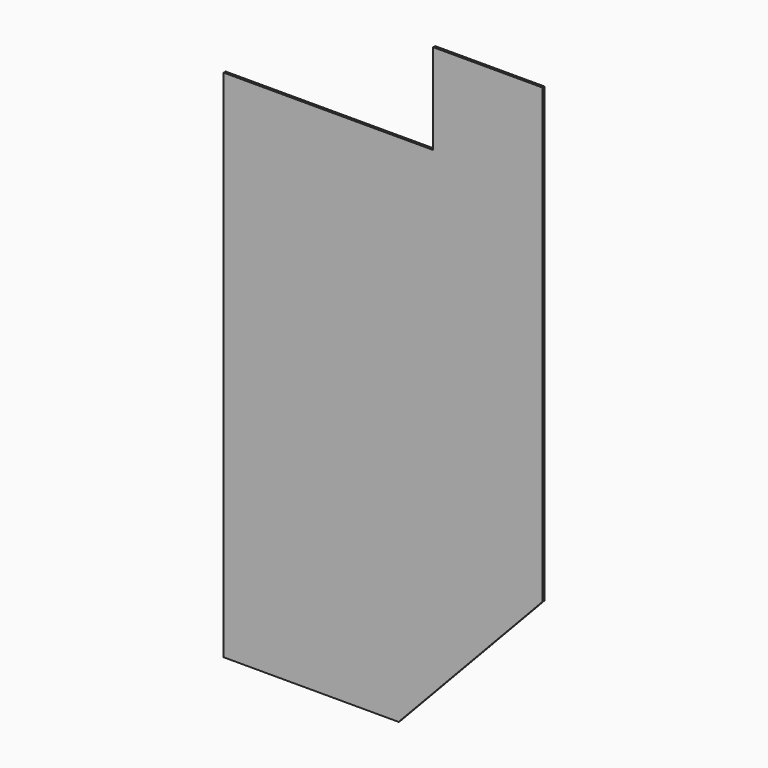
from build123d import *

# Parameters (mm, degrees)
F0_W     = 381
F0_H     = 780.4117928475
F0_W_2   = 44.45
F0_W_3   = 381.6382071525
F1_DEPTH = 12.7
F0_W_4   = 492.125
F0_H_2   = 867.0322071525
F0_H_3   = 44.45
F0_H_4   = 854.456
F2_DEPTH = 12.7
F0_W_5   = 514.35
F0_H_5   = 641.6072071525
F0_H_6   = 629.031
F0_H_7   = 406.4
F0_H_8   = 419.1
F3_DEPTH = 12.7


with BuildPart() as f1:
    # F0 (on Front) → F1 (new body)
    with BuildSketch(Plane.XZ):
        Polygon((-1159.5071711258, -308.3058698438), (-1159.5071711258, -1110.9458698438), (-1115.0571711258, -1110.9458698438), (-1115.0571711258, -330.5340769963), (-1115.0571711258, -308.3058698438), align=None)
        with Locations((-924.5571711258, -720.73997342)):
            Rectangle(F0_W, F0_H)
        Polygon((-64.1321711258, -308.3058698438), (-1115.0571711258, -308.3058698438), (-1115.0571711258, -330.5340769963), (-734.0571711258, -330.5340769963), (-689.6071711258, -330.5340769963), (-307.9689639733, -330.5340769963), (-263.5189639733, -330.5340769963), (472.4428288742, -330.5340769963), (472.4428288742, -308.3058698438), align=None)
        with Locations((-711.8321711258, -720.73997342)):
            Rectangle(F0_W_2, F0_H)
        with Locations((-285.7439639733, -720.73997342)):
            Rectangle(F0_W_2, F0_H)
        with Locations((-498.7880675496, -720.73997342)):
            Rectangle(F0_W_3, F0_H)
        Polygon((-263.5189639733, -330.5340769963), (-263.5189639733, -1110.9458698438), (472.4428288742, -330.5340769963), align=None)
    extrude(amount=F1_DEPTH)

    # F0 (on Front) → F2 (join)
    with BuildSketch(Plane.XZ):
        with Locations((-868.9946711258, 147.43202658)):
            Rectangle(F0_W_4, F0_H_2)
        with Locations((-332.4196711258, 147.43202658)):
            Rectangle(F0_W_4, F0_H_2)
        Polygon((-578.4821711258, 1479.8541301562), (-622.9321711258, 1479.8541301562), (-622.9321711258, 625.3981301562), (-622.9321711258, 580.9481301562), (-622.9321711258, -286.0840769963), (-578.4821711258, -286.0840769963), (-578.4821711258, 580.9481301562), (-578.4821711258, 625.3981301562), align=None)
        Polygon((-1115.0571711258, -286.0840769963), (-1115.0571711258, -308.3058698438), (-64.1321711258, -308.3058698438), (-64.1321711258, -286.0840769963), (-86.3571711258, -286.0840769963), (-578.4821711258, -286.0840769963), (-622.9321711258, -286.0840769963), align=None)
        Polygon((-64.1321711258, 1524.3041301562), (-86.3571711258, 1524.3041301562), (-86.3571711258, 1479.8541301562), (-86.3571711258, 625.3981301562), (-86.3571711258, 580.9481301562), (-86.3571711258, -286.0840769963), (-64.1321711258, -286.0840769963), align=None)
        with Locations((-332.4196711258, 603.1731301562)):
            Rectangle(F0_W_4, F0_H_3)
        with Locations((-868.9946711258, 603.1731301562)):
            Rectangle(F0_W_4, F0_H_3)
        with Locations((-868.9946711258, 1052.6261301562)):
            Rectangle(F0_W_4, F0_H_4)
        with Locations((-332.4196711258, 1052.6261301562)):
            Rectangle(F0_W_4, F0_H_4)
        Polygon((-1159.5071711258, 1524.3041301562), (-1159.5071711258, 1479.8541301562), (-1115.0571711258, 1479.8541301562), (-622.9321711258, 1479.8541301562), (-578.4821711258, 1479.8541301562), (-86.3571711258, 1479.8541301562), (-86.3571711258, 1524.3041301562), align=None)
        Polygon((-1159.5071711258, 1479.8541301562), (-1159.5071711258, -308.3058698438), (-1115.0571711258, -308.3058698438), (-1115.0571711258, -286.0840769963), (-1115.0571711258, 580.9481301562), (-1115.0571711258, 625.3981301562), (-1115.0571711258, 1479.8541301562), align=None)
    extrude(amount=F2_DEPTH)

    # F0 (on Front) → F3 (join)
    with BuildSketch(Plane.XZ):
        with Locations((215.2678288742, 34.71952658)):
            Rectangle(F0_W_5, F0_H_5)
        with Locations((215.2678288742, 377.7481301562)):
            Rectangle(F0_W_5, F0_H_3)
        with Locations((215.2678288742, 714.4886301562)):
            Rectangle(F0_W_5, F0_H_6)
        with Locations((215.2678288742, 1276.6541301562)):
            Rectangle(F0_W_5, F0_H_7)
        with Locations((215.2678288742, 1051.2291301562)):
            Rectangle(F0_W_5, F0_H_3)
        Polygon((-86.3571711258, 1987.8541301562), (-86.3571711258, 1524.3041301562), (-64.1321711258, 1524.3041301562), (-64.1321711258, -286.0840769963), (-41.9071711258, -286.0840769963), (-41.9071711258, 355.5231301562), (-41.9071711258, 399.9731301562), (-41.9071711258, 1029.0041301562), (-41.9071711258, 1073.4541301562), (-41.9071711258, 1479.8541301562), (-41.9071711258, 1524.3041301562), (-41.9071711258, 1943.4041301562), (-41.9071711258, 1987.8541301562), (-64.1321711258, 1987.8541301562), align=None)
        Polygon((-64.1321711258, -286.0840769963), (-64.1321711258, -308.3058698438), (472.4428288742, -308.3058698438), (472.4428288742, -286.0840769963), (-41.9071711258, -286.0840769963), align=None)
        with Locations((215.2678288742, 1502.0791301562)):
            Rectangle(F0_W_5, F0_H_3)
        with Locations((215.2678288742, 1965.6291301562)):
            Rectangle(F0_W_5, F0_H_3)
        with Locations((215.2678288742, 1733.8541301562)):
            Rectangle(F0_W_5, F0_H_8)
    extrude(amount=F3_DEPTH)


solid = f1.part
